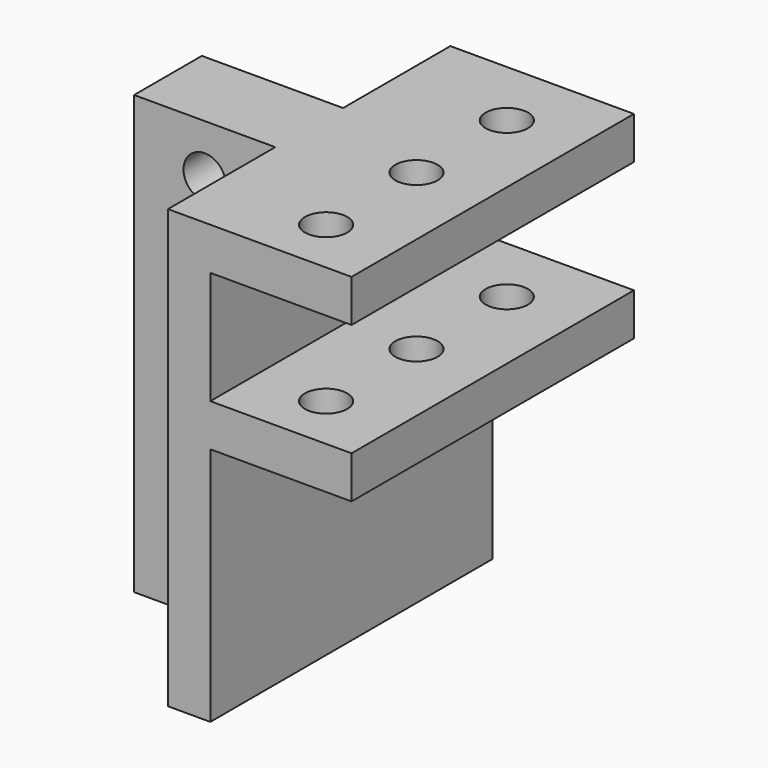
from build123d import *

# Parameters (mm, degrees)
F1_DEPTH = 79.375
F2_W     = 19.05
F2_H     = 98.425
F3_DEPTH = 31.75
F4_R     = 4.7625
F5_DEPTH = 49.2135
F6_R     = 4.7625
F7_DEPTH = 98.426


with BuildPart() as f1:
    # F0 (on Front) → F1 (new body)
    with BuildSketch(Plane.XZ):
        Polygon((-39.476471, 39.877854), (-39.476471, -58.547146), (-29.951471, -58.547146), (-29.951471, -4.572146), (1.798529, -4.572146), (1.798529, 4.952854), (-29.951471, 4.952854), (-29.951471, 30.352854), (1.798529, 30.352854), (1.798529, 39.877854), align=None)
    extrude(amount=F1_DEPTH)

    # F2 (on face) → F3 (join)
    with BuildSketch(Plane(origin=(-39.476471, 0, 0), x_dir=(0, -1, 0), z_dir=(-1, 0, 0))):
        with Locations((39.6875, -9.334646)):
            Rectangle(F2_W, F2_H)
    extrude(amount=F3_DEPTH)

    # F4 (on face) → F5 (cut, through all)
    with BuildSketch(Plane.XZ.offset(49.2125)):
        with Locations((-55.351471, 28.765354)):
            Circle(F4_R)
        with Locations((-55.351471, 3.365354)):
            Circle(F4_R)
        with Locations((-55.351471, -22.034646)):
            Circle(F4_R)
        with Locations((-55.351471, -47.434646)):
            Circle(F4_R)
    extrude(amount=-F5_DEPTH, mode=Mode.SUBTRACT)

    # F6 (on face) → F7 (cut, through all)
    with BuildSketch(Plane.XY.offset(39.877854)):
        with Locations((-14.076471, -15.875)):
            Circle(F6_R)
        with Locations((-14.076471, -41.275)):
            Circle(F6_R)
        with Locations((-14.076471, -66.675)):
            Circle(F6_R)
    extrude(amount=-F7_DEPTH, mode=Mode.SUBTRACT)


solid = f1.part
